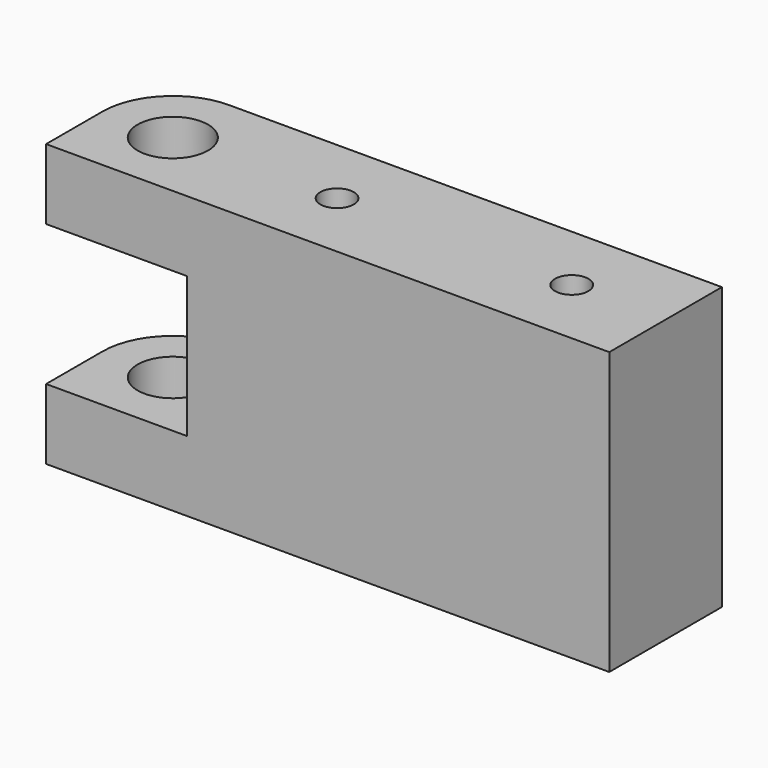
from build123d import *

# Parameters (mm, degrees)
F0_W      = 38.1
F0_H      = 9.525
F1_DEPTH  = 19.05
F3_D      = 2.2606
F4_W      = 9.525
F4_H      = 9.525
F5_DEPTH  = 9.526
F7_DEPTH  = 19.051
F8_R      = 4.7625
F9_R      = 3.96875
F10_DEPTH = 4.7625


with BuildPart() as f1:
    # F0 (on Top) → F1 (new body)
    with BuildSketch(Plane.XY):
        with Locations((19.05, 4.7625)):
            Rectangle(F0_W, F0_H)
    extrude(amount=F1_DEPTH)

    # F3 (through all)
    with Locations(Plane.XY.offset(19.05)):
        with Locations((15.875, 4.7625), (31.75, 4.7625)):
            Hole(F3_D / 2)

    # F4 (on face) → F5 (cut, through all)
    with BuildSketch(Plane.XZ):
        with Locations((4.7625, 9.525)):
            Rectangle(F4_W, F4_H)
    extrude(amount=-F5_DEPTH, mode=Mode.SUBTRACT)

    # F6 (on face) → F7 (cut, through all)
    with BuildSketch(Plane.XY.offset(19.05)):
        with BuildLine():
            ThreePointArc((2.38125, 4.7625), (4.7625, 2.38125), (7.14375, 4.7625))
            ThreePointArc((7.14375, 4.7625), (4.7625, 7.14375), (2.38125, 4.7625))
        make_face()
    extrude(amount=-F7_DEPTH, mode=Mode.SUBTRACT)

    # F8
    f8_edges = [f1.edges().sort_by_distance(p)[0] for p in [
        (0, 9.525, 16.66875),
        (0, 9.525, 2.38125),
    ]]
    fillet(f8_edges, radius=F8_R)

    # F9 (on face) → F10 (cut)
    with BuildSketch(Plane(origin=(0, 9.525, 0), x_dir=(-1, 0, 0), z_dir=(0, 1, 0))):
        with Locations((-23.8125, 9.525)):
            Circle(F9_R)
    extrude(amount=-F10_DEPTH, mode=Mode.SUBTRACT)


solid = f1.part
